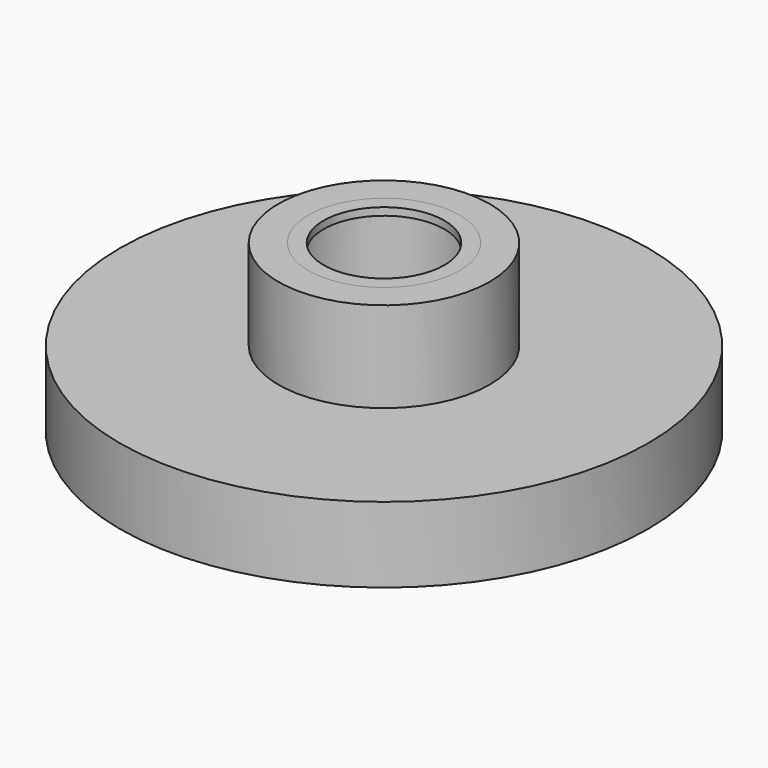
from build123d import *

# Parameters (mm, degrees)
F0_R     = 8.75
F1_DEPTH = 2.5
F2_R     = 3.5
F2_R_2   = 2.5
F3_DEPTH = 3
F4_R     = 2.5
F4_R_2   = 2
F5_DEPTH = 0.25


with BuildPart() as f1:
    # F0 (on Top) → F1 (new body)
    with BuildSketch(Plane.XY):
        Circle(F0_R)
    extrude(amount=F1_DEPTH)

    # F2 (on face) → F3 (join)
    with BuildSketch(Plane.XY.offset(2.5)):
        Circle(F2_R)
        Circle(F2_R_2, mode=Mode.SUBTRACT)
    extrude(amount=F3_DEPTH)


with BuildPart() as f5:
    # F4 (on face) → F5 (new body)
    with BuildSketch(Plane.XY.offset(5.5)):
        Circle(F4_R)
        Circle(F4_R_2, mode=Mode.SUBTRACT)
    extrude(amount=-F5_DEPTH)


solid = Compound([f1.part, f5.part])
